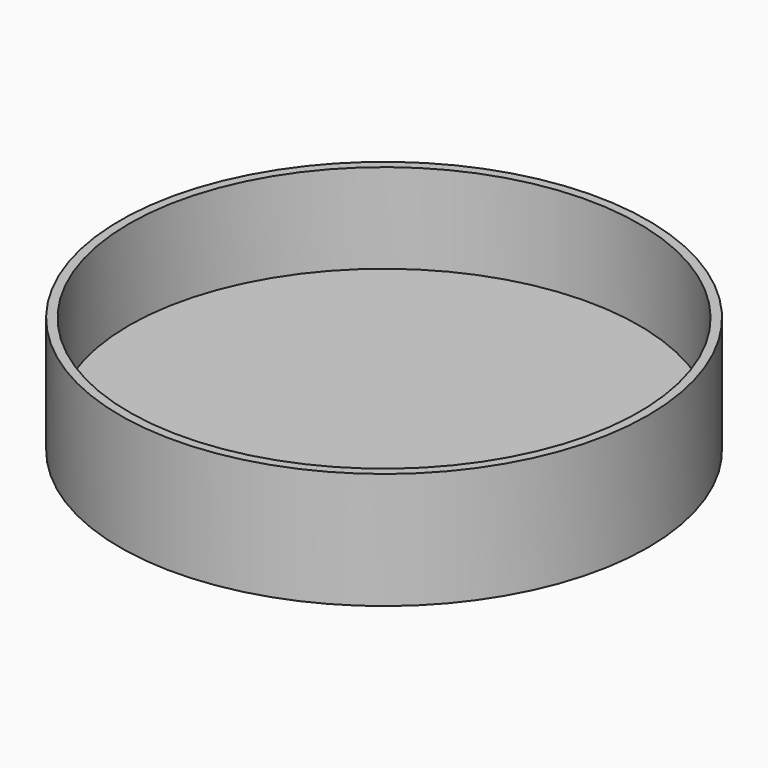
from build123d import *

# Parameters (mm, degrees)
F0_R     = 29.5
F2_DEPTH = 10
F3_D     = 57
F5_R     = 29.5
F6_DEPTH = 3


with BuildPart() as f2:
    # F0 (on Top) → F2 (new body)
    with BuildSketch(Plane.XY):
        Circle(F0_R)
    extrude(amount=F2_DEPTH)

    # F3 (through all)
    with Locations(Plane(origin=(0, 0, 0), x_dir=(1, 0, 0), z_dir=(0, 0, -1))):
        with Locations((0, 0)):
            Hole(F3_D / 2)

    # F5 (on offset) → F6 (join)
    with BuildSketch(Plane.XY.offset(-3)):
        Circle(F5_R)
    extrude(amount=F6_DEPTH)


solid = f2.part
